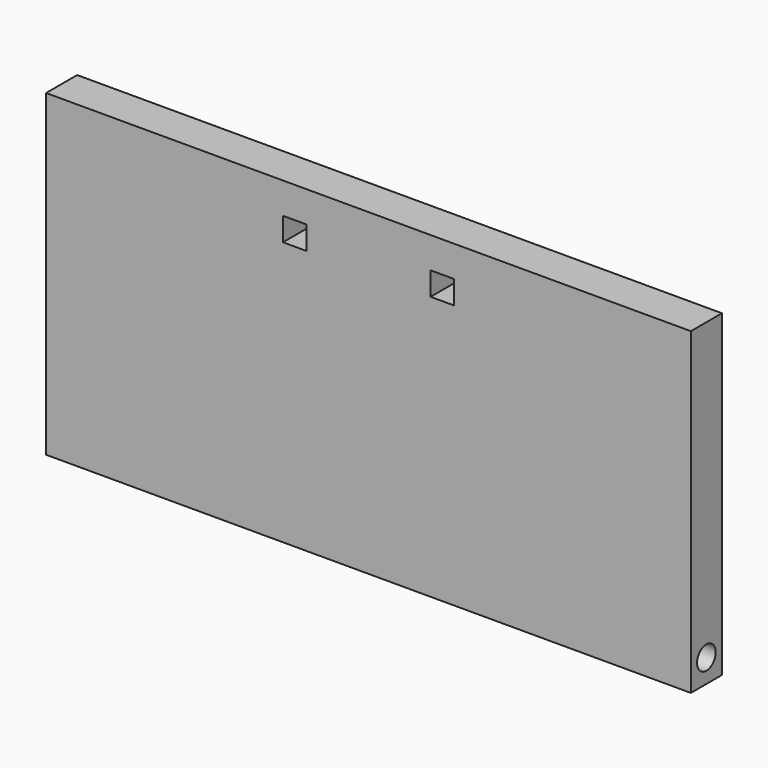
from build123d import *

# Parameters (mm, degrees)
F0_W     = 105.41
F0_H     = 52.07
F0_W_2   = 3.81
F0_H_2   = 3.81
F1_DEPTH = 6.35
F2_R     = 1.905
F3_DEPTH = 105.411


with BuildPart() as f1:
    # F0 (on Front) → F1 (new body)
    with BuildSketch(Plane.XZ):
        with Locations((52.705, -26.035)):
            Rectangle(F0_W, F0_H)
        with Locations((40.64, -6.985)):
            Rectangle(F0_W_2, F0_H_2, mode=Mode.SUBTRACT)
        with Locations((64.77, -6.985)):
            Rectangle(F0_W_2, F0_H_2, mode=Mode.SUBTRACT)
    extrude(amount=F1_DEPTH)

    # F2 (on Right) → F3 (cut, through all)
    with BuildSketch(Plane.YZ):
        with Locations((-3.175, -48.26)):
            Circle(F2_R)
    extrude(amount=F3_DEPTH, mode=Mode.SUBTRACT)


solid = f1.part
